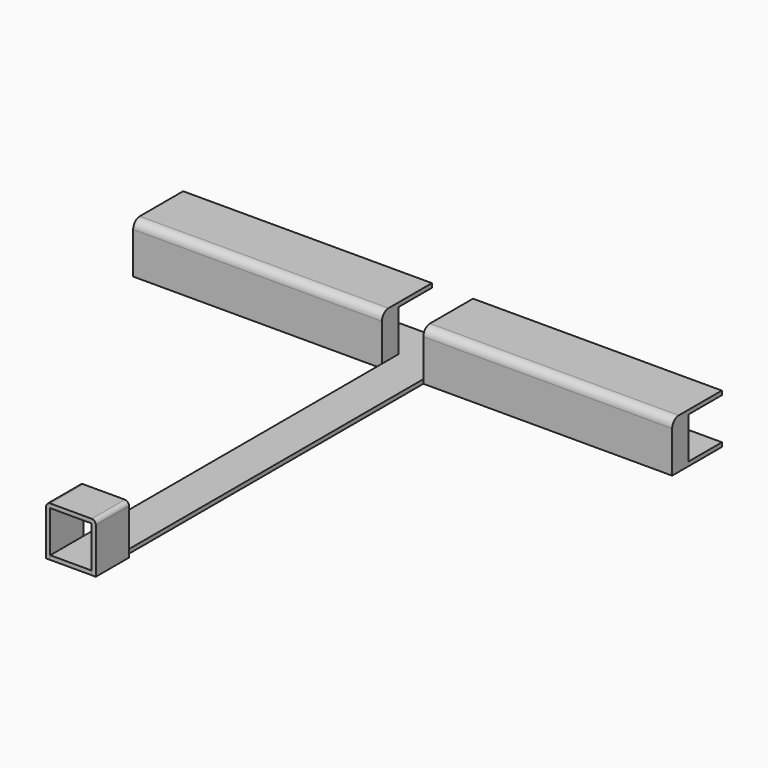
from build123d import *

# Parameters (mm, degrees)
F0_W     = 152.4
F0_H     = 38.1
F0_W_2   = 25.4
F0_H_2   = 254
F1_DEPTH = 2.54
F2_W     = 152.4
F2_H     = 12.7
F3_DEPTH = 25.4
F4_W     = 152.4
F4_H     = 25.576886
F4_H_2   = 12.7
F5_DEPTH = 2.54
F6_W     = 152.4
F6_H     = 25.295634
F6_H_2   = 12.7
F7_DEPTH = 2.54
F9_DEPTH = 25.4
F10_R    = 2.54
F11_R    = 2.54
F12_R    = 5.08
F13_R    = 5.08


with BuildPart() as f1:
    # F0 (on Top) → F1 (new body)
    with BuildSketch(Plane.XY):
        with Locations((-11.425986, 4.241091)):
            Rectangle(F0_W, F0_H)
        with Locations((77.474014, 4.241091)):
            Rectangle(F0_W_2, F0_H)
        with Locations((77.474014, -141.808909)):
            Rectangle(F0_W_2, F0_H_2)
        with Locations((166.374014, 4.241091)):
            Rectangle(F0_W, F0_H)
    extrude(amount=F1_DEPTH)

    # F2 (on face) → F3 (join)
    with BuildSketch(Plane.XY.offset(2.54)):
        with Locations((-11.425986, -8.458909)):
            Rectangle(F2_W, F2_H)
        with Locations((166.374014, -8.458909)):
            Rectangle(F2_W, F2_H)
    extrude(amount=F3_DEPTH)

    # F4 (on face) → F5 (join)
    with BuildSketch(Plane.XY.offset(27.94)):
        with Locations((-11.425986, 10.679534)):
            Rectangle(F4_W, F4_H)
        with Locations((-11.425986, -8.458909)):
            Rectangle(F4_W, F4_H_2)
    extrude(amount=F5_DEPTH)

    # F6 (on face) → F7 (join)
    with BuildSketch(Plane.XY.offset(27.94)):
        with Locations((166.374014, 10.538908)):
            Rectangle(F6_W, F6_H)
        with Locations((166.374014, -8.458909)):
            Rectangle(F6_W, F6_H_2)
    extrude(amount=F7_DEPTH)

    # F12
    f12_edges = [f1.edges().sort_by_distance(p)[0] for p in [
        (166.374014, -14.808909, 30.48),
    ]]
    fillet(f12_edges, radius=F12_R)

    # F13
    f13_edges = [f1.edges().sort_by_distance(p)[0] for p in [
        (-11.425986, -14.808909, 30.48),
    ]]
    fillet(f13_edges, radius=F13_R)


with BuildPart() as f9:
    # F8 (on face) → F9 (new body)
    with BuildSketch(Plane.XZ.offset(268.808909)):
        Polygon((62.234014, 0), (64.774014, 0), (64.774014, 2.54), (64.774014, 27.94), (90.174014, 27.94), (90.174014, 2.54), (90.174014, 0), (92.714014, 0), (92.714014, 30.48), (62.234014, 30.48), align=None)
    extrude(amount=-F9_DEPTH)

    # F10
    f10_edges = [f9.edges().sort_by_distance(p)[0] for p in [
        (92.714014, -256.108909, 30.48),
    ]]
    fillet(f10_edges, radius=F10_R)

    # F11
    f11_edges = [f9.edges().sort_by_distance(p)[0] for p in [
        (62.234014, -256.108909, 30.48),
    ]]
    fillet(f11_edges, radius=F11_R)


solid = Compound([f1.part, f9.part])
